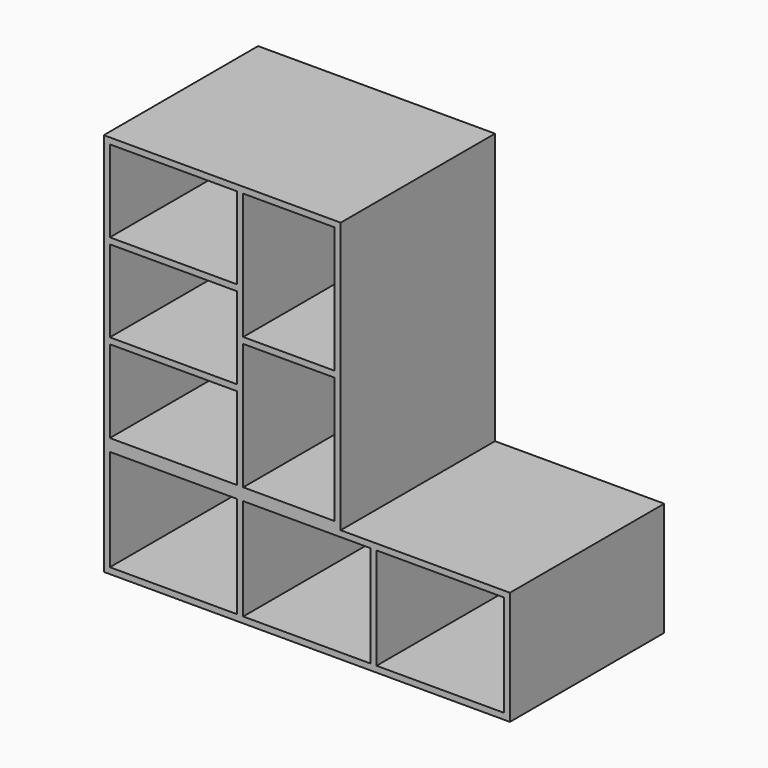
from build123d import *

# Parameters (mm, degrees)
F0_W      = 1200
F0_H      = 570
F1_DEPTH  = 18
F3_DEPTH  = 300
F4_W      = 1200
F4_H      = 570
F5_DEPTH  = 18
F6_W      = 700
F6_H      = 570
F7_DEPTH  = 18
F8_W      = 18
F8_H      = 570
F9_DEPTH  = 764
F10_W     = 682
F10_H     = 570
F10_W_2   = 18
F11_DEPTH = 18
F12_W     = 18
F12_H     = 570
F13_DEPTH = 764
F14_W     = 270
F14_H     = 18
F14_W_2   = 376
F15_DEPTH = 570


with BuildPart() as f1:
    # F0 (on Top) → F1 (new body)
    with BuildSketch(Plane.XY):
        Rectangle(F0_W, F0_H)
    extrude(amount=F1_DEPTH)

    # F2 (on face) → F3 (join)
    with BuildSketch(Plane.XY.offset(18)):
        Polygon((-582, 285), (-600, 285), (-600, -285), (-582, -285), (-582, 92.4397557974), align=None)
        Polygon((-188, 285), (-206, 285), (-206, 92.4397557974), (-206, -285), (-188, -285), (-188, 93.6823561788), align=None)
        Polygon((206, 285), (188, 285), (188, 93.6823561788), (188, -285), (206, -285), (206, 93.6823785305), align=None)
        Polygon((600, 285), (582, 285), (582, 93.6823785305), (582, -285), (600, -285), align=None)
    extrude(amount=F3_DEPTH)

    # F4 (on face) → F5 (join)
    with BuildSketch(Plane.XY.offset(318)):
        Rectangle(F4_W, F4_H)
    extrude(amount=F5_DEPTH)

    # F6 (on face) → F7 (join)
    with BuildSketch(Plane.XY.offset(336)):
        with Locations((-250, 0)):
            Rectangle(F6_W, F6_H)
    extrude(amount=F7_DEPTH)

    # F8 (on face) → F9 (join)
    with BuildSketch(Plane.XY.offset(354)):
        with Locations((-591, 0)):
            Rectangle(F8_W, F8_H)
        with Locations((91, 0)):
            Rectangle(F8_W, F8_H)
    extrude(amount=F9_DEPTH)

    # F10 (on face) → F11 (join)
    with BuildSketch(Plane.XY.offset(1118)):
        with Locations((-259, 0)):
            Rectangle(F10_W, F10_H)
        with Locations((91, 0)):
            Rectangle(F10_W_2, F10_H)
    extrude(amount=F11_DEPTH)

    # F12 (on face) → F13 (join)
    with BuildSketch(Plane.XY.offset(354)):
        with Locations((-197, 0)):
            Rectangle(F12_W, F12_H)
    extrude(amount=F13_DEPTH)

    # F14 (on face) → F15 (join)
    with BuildSketch(Plane.XZ.offset(285)):
        with Locations((-53, 736)):
            Rectangle(F14_W, F14_H)
        with Locations((-394, 867)):
            Rectangle(F14_W_2, F14_H)
        with Locations((-394, 607)):
            Rectangle(F14_W_2, F14_H)
    extrude(amount=-F15_DEPTH)


solid = f1.part
